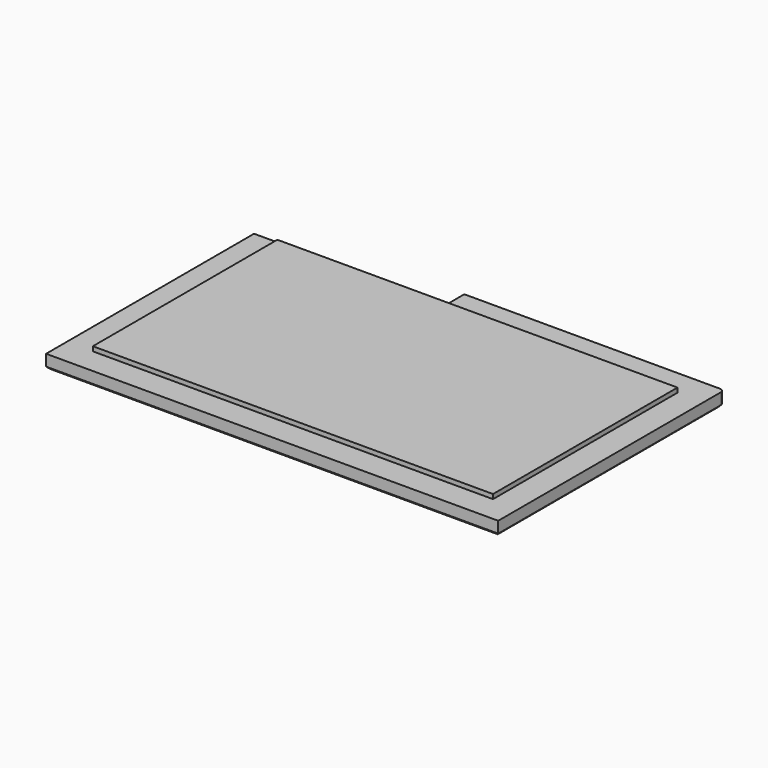
from build123d import *

# Parameters (mm, degrees)
SKETCH_W        = 200
SKETCH_H        = 125
PAD_DEPTH       = 6
SKETCH001_W     = 177
SKETCH001_H     = 102
PAD001_DEPTH    = 2
POCKET_DEPTH    = 120
SKETCH003_W     = 85
SKETCH003_H     = 10
POCKET001_DEPTH = 8.001
FILLET_R        = 2
CHAMFER_SIZE    = 1
CHAMFER001_SIZE = 1
CHAMFER002_SIZE = 1


with BuildPart() as part:
    # Sketch → Pad (new body)
    with BuildSketch(Plane.XY):
        Rectangle(SKETCH_W, SKETCH_H)
    extrude(amount=PAD_DEPTH)

    # Sketch001 (on Face6 of Pad) → Pad001 (join)
    with BuildSketch(Plane.XY.offset(6)):
        Rectangle(SKETCH001_W, SKETCH001_H)
    extrude(amount=PAD001_DEPTH)

    # Sketch002 (on Face2 of Pad001) → Pocket (cut)
    with BuildSketch(Plane(origin=(-100, 0, 0), x_dir=(0, -1, 0), z_dir=(-1, 0, 0))):
        Polygon((-60.5, 0), (-56.964466, 3.535534), (-53.428932, 0), (-56.964466, -3.535534), align=None)
    extrude(amount=-POCKET_DEPTH, mode=Mode.SUBTRACT)

    # Sketch003 (on Face4 of Pocket) → Pocket001 (cut, through all)
    with BuildSketch(Plane(origin=(0, 0, 0), x_dir=(1, 0, 0), z_dir=(0, 0, -1))):
        with Locations((-57.5, -57.5)):
            Rectangle(SKETCH003_W, SKETCH003_H)
    extrude(amount=-POCKET001_DEPTH, mode=Mode.SUBTRACT)

    # Fillet
    fillet_edges = [part.edges().sort_by_distance(p)[0] for p in [
        (100, 62.5, 3),
    ]]
    fillet(fillet_edges, radius=FILLET_R)

    # Chamfer
    chamfer_edges = [part.edges().sort_by_distance(p)[0] for p in [
        (100, -1, 0),
    ]]
    chamfer(chamfer_edges, length=CHAMFER_SIZE)

    # Chamfer001
    chamfer001_edges = [part.edges().sort_by_distance(p)[0] for p in [
        (-100, -5, 0),
    ]]
    chamfer(chamfer001_edges, length=CHAMFER001_SIZE)

    # Chamfer002
    chamfer002_edges = [part.edges().sort_by_distance(p)[0] for p in [
        (0, -62.5, 0),
    ]]
    chamfer(chamfer002_edges, length=CHAMFER002_SIZE)


solid = part.part
